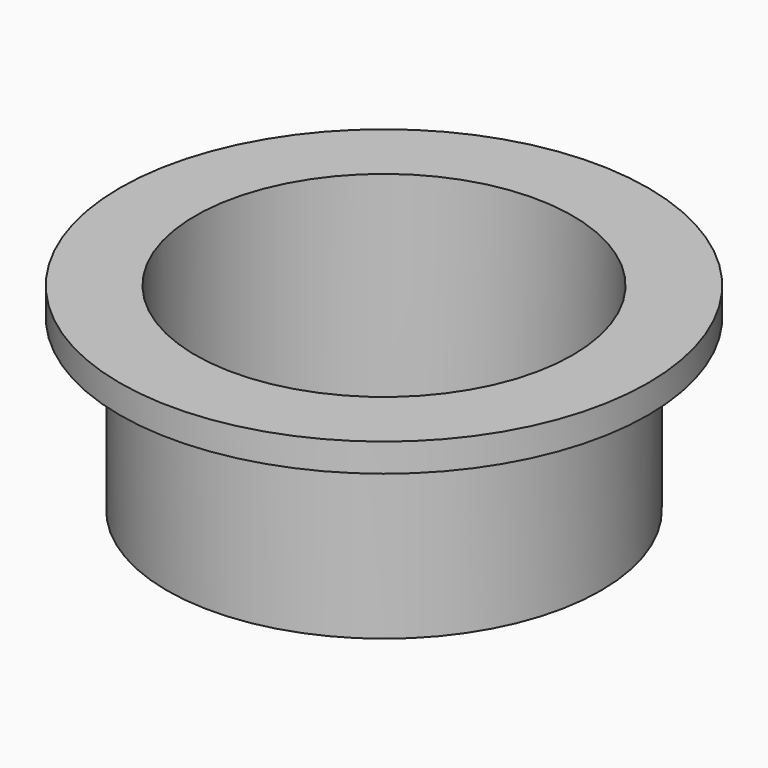
from build123d import *

# Parameters (mm, degrees)
SKETCH_R      = 23
SKETCH_R_2    = 20
PAD_DEPTH     = 18
SKETCH001_R   = 28
SKETCH001_R_2 = 20
PAD001_DEPTH  = 3


with BuildPart() as part:
    # Sketch → Pad (new body)
    with BuildSketch(Plane.XY):
        Circle(SKETCH_R)
        Circle(SKETCH_R_2, mode=Mode.SUBTRACT)
    extrude(amount=PAD_DEPTH)

    # Sketch001 (on Face4 of Pad) → Pad001 (join)
    with BuildSketch(Plane.XY.offset(18)):
        Circle(SKETCH001_R)
        Circle(SKETCH001_R_2, mode=Mode.SUBTRACT)
    extrude(amount=PAD001_DEPTH)


solid = part.part
